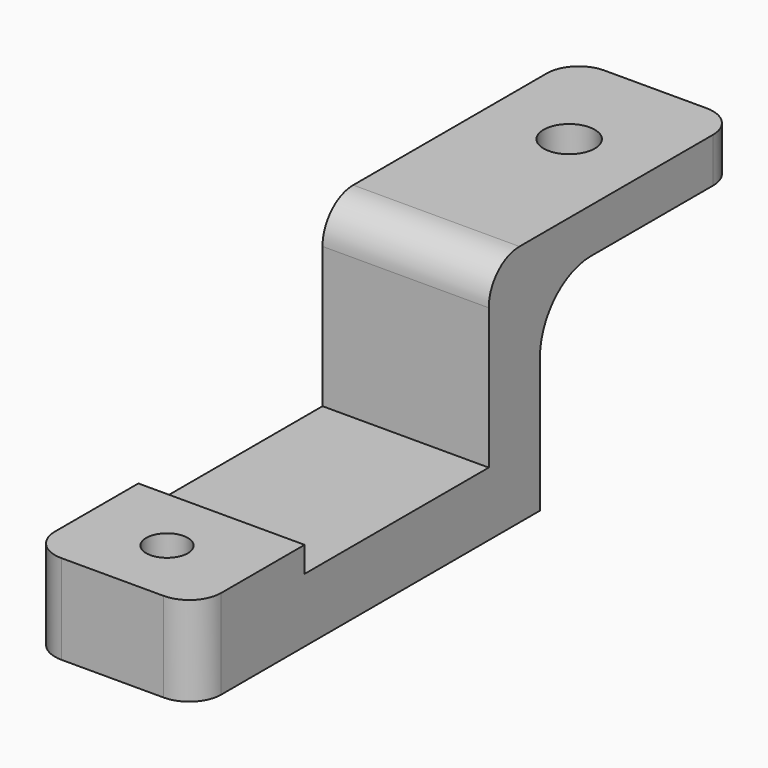
from build123d import *

# Parameters (mm, degrees)
F1_DEPTH = 13
F2_R     = 1.625
F3_DEPTH = 25
F4_R     = 2
F5_DEPTH = 25
F6_R     = 5
F7_R     = 3
F8_R     = 2.5


with BuildPart() as f1:
    # F0 (on Right) → F1 (new body)
    with BuildSketch(Plane.YZ):
        Polygon((10.648379, 0), (0, 0), (0, -7), (33.648379, -7), (33.648379, 8.5), (53.068466, 8.5), (53.068466, 12), (28.648379, 12), (28.648379, -2), (10.648379, -2), align=None)
    extrude(amount=F1_DEPTH)

    # F2 (on face) → F3 (cut)
    with BuildSketch(Plane.XY):
        with Locations((6.5, 5.32419)):
            Circle(F2_R)
    extrude(amount=-F3_DEPTH, mode=Mode.SUBTRACT)

    # F4 (on face) → F5 (cut)
    with BuildSketch(Plane.XY.offset(12)):
        with Locations((6.5, 44.636294)):
            Circle(F4_R)
    extrude(amount=-F5_DEPTH, mode=Mode.SUBTRACT)

    # F6
    f6_edges = [f1.edges().sort_by_distance(p)[0] for p in [
        (6.5, 33.648379, 8.5),
    ]]
    fillet(f6_edges, radius=F6_R)

    # F7
    f7_edges = [f1.edges().sort_by_distance(p)[0] for p in [
        (6.5, 28.648379, 12),
    ]]
    fillet(f7_edges, radius=F7_R)

    # F8
    f8_edges = [f1.edges().sort_by_distance(p)[0] for p in [
        (13, 53.068466, 10.25),
        (0, 53.068466, 10.25),
        (13, 0, -3.5),
        (0, 0, -3.5),
    ]]
    fillet(f8_edges, radius=F8_R)


solid = f1.part
